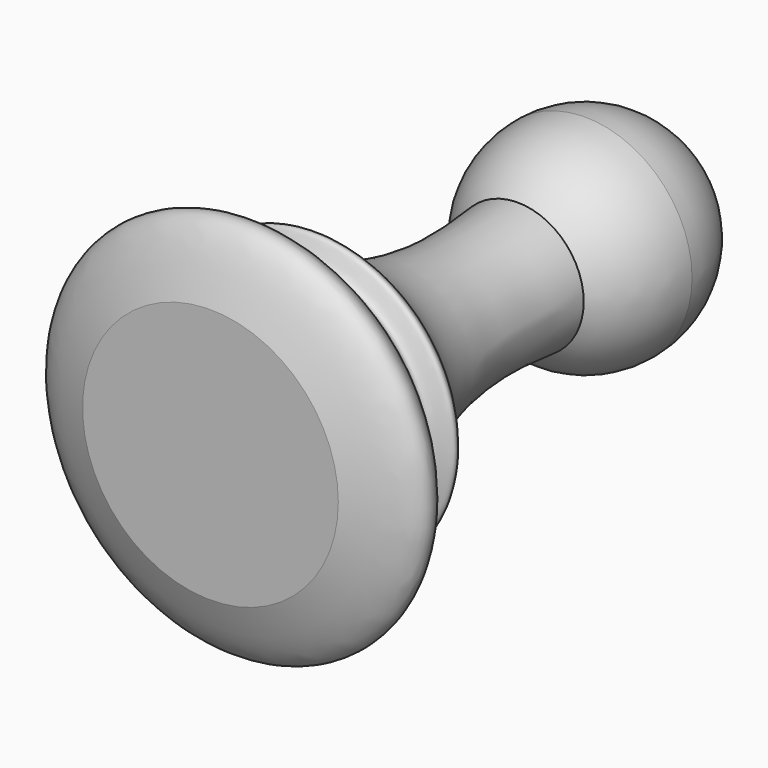
from build123d import *


with BuildPart() as f1:
    # F0 (on Top) → F1 (revolve)
    with BuildSketch(Plane.XY):
        with BuildLine():
            ThreePointArc((3.3330035002, 19.4126078993), (1.7628891909, 18.5582850921), (0, 18.2627379655))
            Line((0, 18.2627379655), (0, 0))
            Line((0, 0), (6.4624007791, 0))
            add(Edge.make_bspline(
                [(6.4624007791, 0), (8.8837076668, 0.8186570353), (11.3393311618, 1.9895544653), (5.1502156612, 5.7646270938), (8.2956126796, 6.236063442), (3.6821060585, 8.8965973834), (2.8428098909, 15.1587608032), (3.3330035002, 19.4126078993)],
                knots=[0, 0, 0, 0, 0.1931885117, 0.401033044, 0.5008400653, 0.6774375276, 1, 1, 1, 1], degree=3))
        make_face()
    revolve(axis=Axis((0, 12.7577278763, 0), (0, 1, 0)))


with BuildPart() as f1b:
    # F0 (on Top) → F1, piece 2 (revolve)
    with BuildSketch(Plane.XY):
        with BuildLine():
            Line((0, 25.5154557526), (0, 19.4126078993))
            Line((0, 19.4126078993), (3.3330035002, 19.4126078993))
            ThreePointArc((3.3330035002, 19.4126078993), (4.8597930559, 21.301489898), (5.4054431857, 23.6681811512))
            ThreePointArc((5.4054431857, 23.6681811512), (3.8222255319, 27.4904066831), (0, 29.0736243369))
            Line((0, 29.0736243369), (0, 25.5154557526))
        make_face()
    revolve(axis=Axis((0, 12.7577278763, 0), (0, 1, 0)))


solid = Compound([f1.part, f1b.part])
